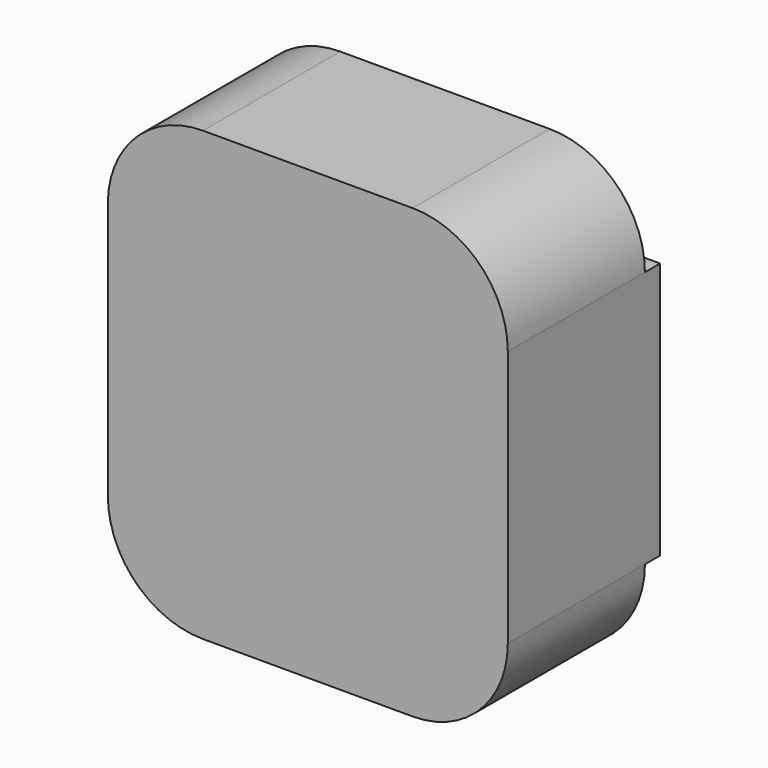
from build123d import *

# Parameters (mm, degrees)
PAD014_DEPTH    = 11.43
SKETCH067_W     = 1.905
SKETCH067_H     = 17.145
PAD015_DEPTH    = 1.27
PAD016_DEPTH    = 5.08
SKETCH074_R     = 3.175
SKETCH074_R_2   = 2.2225
SKETCH074_W     = 2.54
SKETCH074_H     = 4.445
POCKET012_DEPTH = 5.08


with BuildPart() as part:
    # Sketch066 → Pad014 (new body)
    with BuildSketch(Plane.XZ):
        with BuildLine():
            ThreePointArc((-6.985, 14.9225), (-11.475128, 13.062628), (-13.335, 8.5725))
            Line((-13.335, -8.5725), (-13.335, 8.5725))
            ThreePointArc((-13.335, -8.5725), (-11.475128, -13.062628), (-6.985, -14.9225))
            Line((6.985, -14.9225), (-6.985, -14.9225))
            ThreePointArc((6.985, -14.9225), (11.475128, -13.062628), (13.335, -8.5725))
            Line((13.335, 8.5725), (13.335, -8.5725))
            ThreePointArc((13.335, 8.5725), (11.475128, 13.062628), (6.985, 14.9225))
            Line((-6.985, 14.9225), (6.985, 14.9225))
        make_face()
    extrude(amount=-PAD014_DEPTH)

    # Sketch067 (on Face10 of Pad014) → Pad015 (join)
    with BuildSketch(Plane(origin=(0, 11.43, 0), x_dir=(1, 0, 0), z_dir=(0, 1, 0))):
        with Locations((-12.3825, 0)):
            Rectangle(SKETCH067_W, SKETCH067_H)
        with Locations((12.3825, 0)):
            Rectangle(SKETCH067_W, SKETCH067_H)
    extrude(amount=PAD015_DEPTH)

    # Sketch068 (on Face5 of Pad015) → Pad016 (join)
    with BuildSketch(Plane(origin=(0, 11.43, 0), x_dir=(1, 0, 0), z_dir=(0, 1, 0))):
        with BuildLine():
            ThreePointArc((-0.3175, 7.9375), (-1.215526, 7.565526), (-1.5875, 6.6675))
            Line((-1.5875, -6.6675), (-1.5875, 6.6675))
            ThreePointArc((-1.5875, -6.6675), (-1.215526, -7.565526), (-0.3175, -7.9375))
            Line((0.3175, -7.9375), (-0.3175, -7.9375))
            ThreePointArc((0.3175, -7.9375), (1.215526, -7.565526), (1.5875, -6.6675))
            Line((1.5875, 6.6675), (1.5875, -6.6675))
            ThreePointArc((1.5875, 6.6675), (1.215526, 7.565526), (0.3175, 7.9375))
            Line((-0.3175, 7.9375), (0.3175, 7.9375))
        make_face()
    extrude(amount=PAD016_DEPTH)

    # Sketch074 (on Face5 of Pad016) → Pocket012 (cut)
    with BuildSketch(Plane(origin=(0, 11.43, 0), x_dir=(1, 0, 0), z_dir=(0, 1, 0))):
        with Locations((-6.731, -8.89)):
            Circle(SKETCH074_R)
        with Locations((6.731, 8.89)):
            Circle(SKETCH074_R)
        with Locations((-6.35, 0)):
            Circle(SKETCH074_R_2)
        with Locations((6.35, 0)):
            Circle(SKETCH074_R_2)
        with Locations((0, -10.922)):
            Rectangle(SKETCH074_W, SKETCH074_H)
        with Locations((0, 10.922)):
            Rectangle(SKETCH074_W, SKETCH074_H)
    extrude(amount=-POCKET012_DEPTH, mode=Mode.SUBTRACT)


with BuildPart() as part_1:
    # Body011 placement: moved
    add(part.part.moved(Location((17.78, 159.385, 0))))


solid = part_1.part
